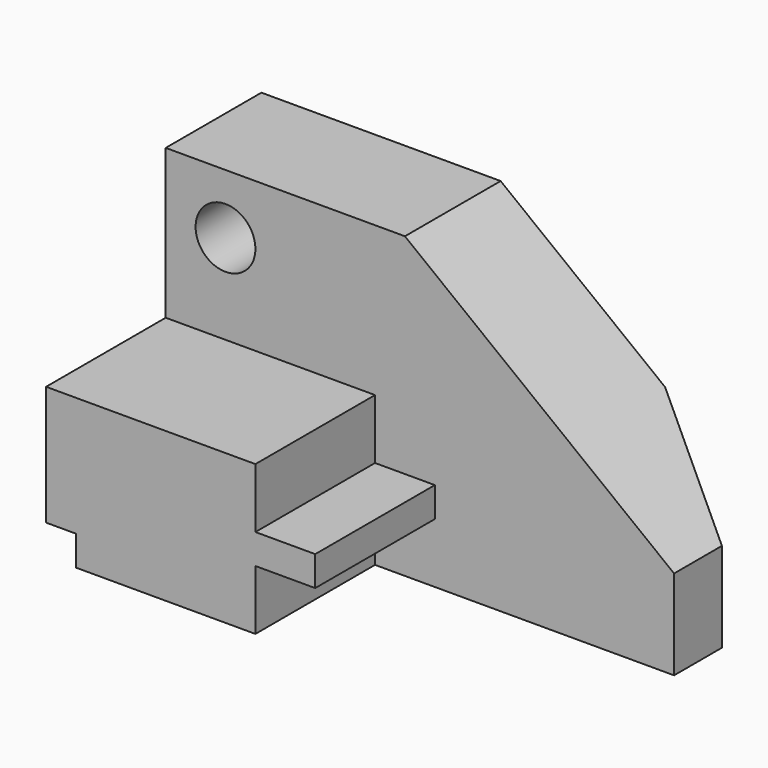
from build123d import *

# Parameters (mm, degrees)
F1_DEPTH = 31.75
F3_DEPTH = 25.4
F4_R     = 6.35
F5_DEPTH = 25.4
F6_W     = 12.7
F6_H     = 19.05
F7_DEPTH = 44.45
F9_DEPTH = 44.451


with BuildPart() as f1:
    # F0 (on Front) → F1 (new body)
    with BuildSketch(Plane.XZ):
        Polygon((6.35, 6.35), (6.35, 0), (44.45, 0), (44.45, 12.7), (57.15, 12.7), (57.15, 19.05), (44.45, 19.05), (44.45, 31.75), (0, 31.75), (0, 6.35), align=None)
    extrude(amount=F1_DEPTH)

    # F2 (on face) → F3 (join)
    with BuildSketch(Plane(origin=(0, 0, 0), x_dir=(-1, 0, 0), z_dir=(0, 1, 0))):
        Polygon((-107.95, 0), (-44.45, 0), (-44.45, 12.7), (-57.15, 12.7), (-57.15, 19.05), (-44.45, 19.05), (-44.45, 31.75), (0, 31.75), (0, 63.5), (-50.8, 63.5), (-107.95, 19.05), align=None)
        Polygon((-44.45, 0), (-6.35, 0), (-6.35, 6.35), (0, 6.35), (0, 31.75), (-44.45, 31.75), (-44.45, 19.05), (-57.15, 19.05), (-57.15, 12.7), (-44.45, 12.7), align=None)
    extrude(amount=F3_DEPTH)

    # F4 (on face) → F5 (cut, through all)
    with BuildSketch(Plane.XZ):
        with Locations((12.7, 50.8)):
            Circle(F4_R)
    extrude(amount=-F5_DEPTH, mode=Mode.SUBTRACT)

    # F6 (on face) → F7 (cut)
    with BuildSketch(Plane.YZ.offset(107.95)):
        with Locations((19.05, 9.525)):
            Rectangle(F6_W, F6_H)
    extrude(amount=-F7_DEPTH, mode=Mode.SUBTRACT)

    # F8 (on face) → F9 (cut, through all)
    with BuildSketch(Plane(origin=(0, 0, 19.05), x_dir=(1, 0, 0), z_dir=(0, 0, -1))):
        Polygon((107.95, -25.4), (107.95, -12.7), (85.725, -25.4), align=None)
    extrude(amount=-F9_DEPTH, mode=Mode.SUBTRACT)


solid = f1.part
